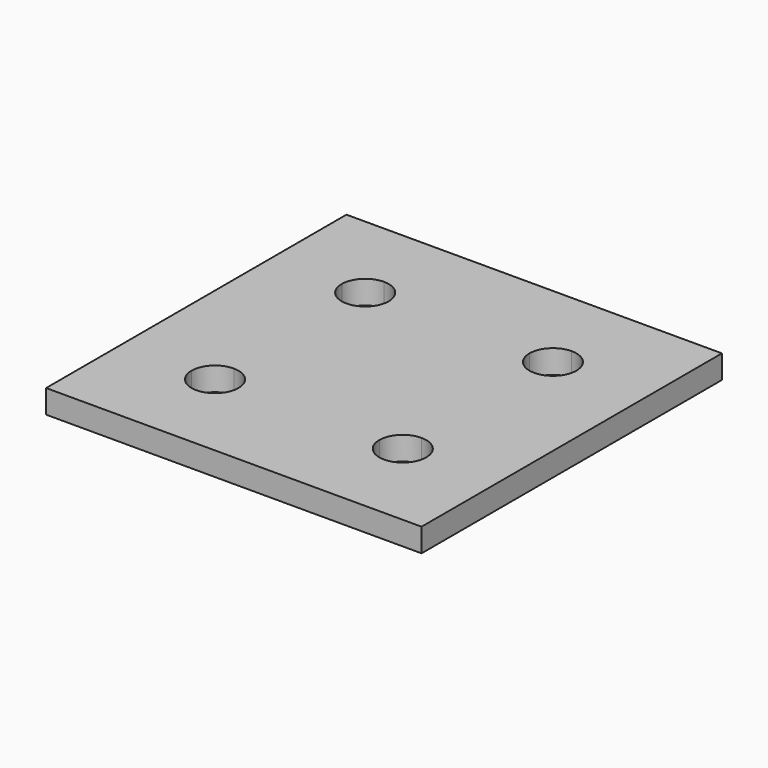
from build123d import *

# Parameters (mm, degrees)
F1_DEPTH = 3.175


with BuildPart() as f1:
    # F0 (on Top) → F1 (new body)
    with BuildSketch(Plane.XY):
        with BuildLine():
            Line((-25.4, 25.4), (-25.4, 12.7))
            Line((-25.4, 12.7), (-15.875, 12.7))
            ThreePointArc((-15.875, 12.7), (-14.9450640303, 14.9450640303), (-12.7, 15.875))
            Line((-12.7, 15.875), (-12.7, 25.4))
            Line((-12.7, 25.4), (-25.4, 25.4))
        make_face()
        with BuildLine():
            Line((12.7, 15.875), (12.7, 25.4))
            Line((12.7, 25.4), (-12.7, 25.4))
            Line((-12.7, 25.4), (-12.7, 15.875))
            ThreePointArc((-12.7, 15.875), (-10.4549359697, 14.9450640303), (-9.525, 12.7))
            Line((-9.525, 12.7), (9.525, 12.7))
            ThreePointArc((9.525, 12.7), (10.4549359697, 14.9450640303), (12.7, 15.875))
        make_face()
        with BuildLine():
            Line((15.875, 12.7), (25.4, 12.7))
            Line((25.4, 12.7), (25.4, 25.4))
            Line((25.4, 25.4), (12.7, 25.4))
            Line((12.7, 25.4), (12.7, 15.875))
            ThreePointArc((12.7, 15.875), (14.9450640303, 14.9450640303), (15.875, 12.7))
        make_face()
        with BuildLine():
            Line((15.875, -12.7), (25.4, -12.7))
            Line((25.4, -12.7), (25.4, 12.7))
            Line((25.4, 12.7), (15.875, 12.7))
            ThreePointArc((15.875, 12.7), (14.9450640303, 10.4549359697), (12.7, 9.525))
            Line((12.7, 9.525), (12.7, -9.525))
            ThreePointArc((12.7, -9.525), (14.9450640303, -10.4549359697), (15.875, -12.7))
        make_face()
        with BuildLine():
            Line((-9.525, -12.7), (9.525, -12.7))
            ThreePointArc((9.525, -12.7), (10.4549359697, -10.4549359697), (12.7, -9.525))
            Line((12.7, -9.525), (12.7, 9.525))
            ThreePointArc((12.7, 9.525), (10.4549359697, 10.4549359697), (9.525, 12.7))
            Line((9.525, 12.7), (-9.525, 12.7))
            ThreePointArc((-9.525, 12.7), (-10.4549359697, 10.4549359697), (-12.7, 9.525))
            Line((-12.7, 9.525), (-12.7, -9.525))
            ThreePointArc((-12.7, -9.525), (-10.4549359697, -10.4549359697), (-9.525, -12.7))
        make_face()
        with BuildLine():
            Line((-25.4, 12.7), (-25.4, -12.7))
            Line((-25.4, -12.7), (-15.875, -12.7))
            ThreePointArc((-15.875, -12.7), (-14.9450640303, -10.4549359697), (-12.7, -9.525))
            Line((-12.7, -9.525), (-12.7, 9.525))
            ThreePointArc((-12.7, 9.525), (-14.9450640303, 10.4549359697), (-15.875, 12.7))
            Line((-15.875, 12.7), (-25.4, 12.7))
        make_face()
        with BuildLine():
            Line((-25.4, -25.4), (-12.7, -25.4))
            Line((-12.7, -25.4), (-12.7, -15.875))
            ThreePointArc((-12.7, -15.875), (-14.9450640303, -14.9450640303), (-15.875, -12.7))
            Line((-15.875, -12.7), (-25.4, -12.7))
            Line((-25.4, -12.7), (-25.4, -25.4))
        make_face()
        with BuildLine():
            Line((-12.7, -25.4), (12.7, -25.4))
            Line((12.7, -25.4), (12.7, -15.875))
            ThreePointArc((12.7, -15.875), (10.4549359697, -14.9450640303), (9.525, -12.7))
            Line((9.525, -12.7), (-9.525, -12.7))
            ThreePointArc((-9.525, -12.7), (-10.4549359697, -14.9450640303), (-12.7, -15.875))
            Line((-12.7, -15.875), (-12.7, -25.4))
        make_face()
        with BuildLine():
            Line((12.7, -25.4), (25.4, -25.4))
            Line((25.4, -25.4), (25.4, -12.7))
            Line((25.4, -12.7), (15.875, -12.7))
            ThreePointArc((15.875, -12.7), (14.9450640303, -14.9450640303), (12.7, -15.875))
            Line((12.7, -15.875), (12.7, -25.4))
        make_face()
    extrude(amount=F1_DEPTH)


solid = f1.part
